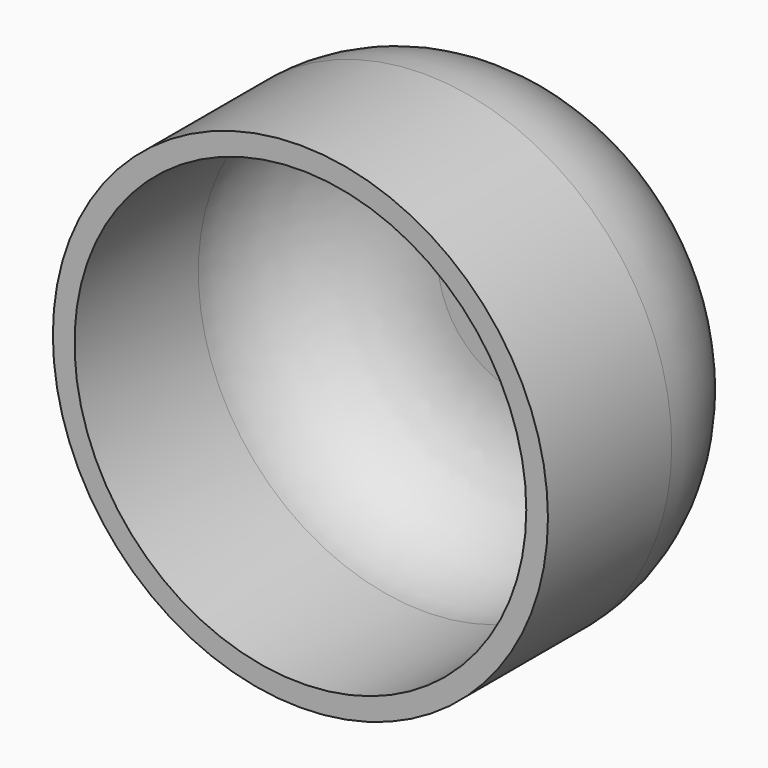
from build123d import *

# Parameters (mm, degrees)
F0_R     = 80
F1_DEPTH = 100
F2_R     = 50
F3_T     = -7


with BuildPart() as f1:
    # F0 (on Front) → F1 (new body)
    with BuildSketch(Plane.XZ):
        Circle(F0_R)
    extrude(amount=F1_DEPTH)

    # F2
    f2_edges = [f1.edges().sort_by_distance(p)[0] for p in [
        (-80, 0, 0),
    ]]
    fillet(f2_edges, radius=F2_R)

    # F3
    f3_openings = [f1.faces().sort_by_distance(p)[0] for p in [
        (0, -100, 0),
    ]]
    offset(amount=F3_T, openings=f3_openings)


solid = f1.part
